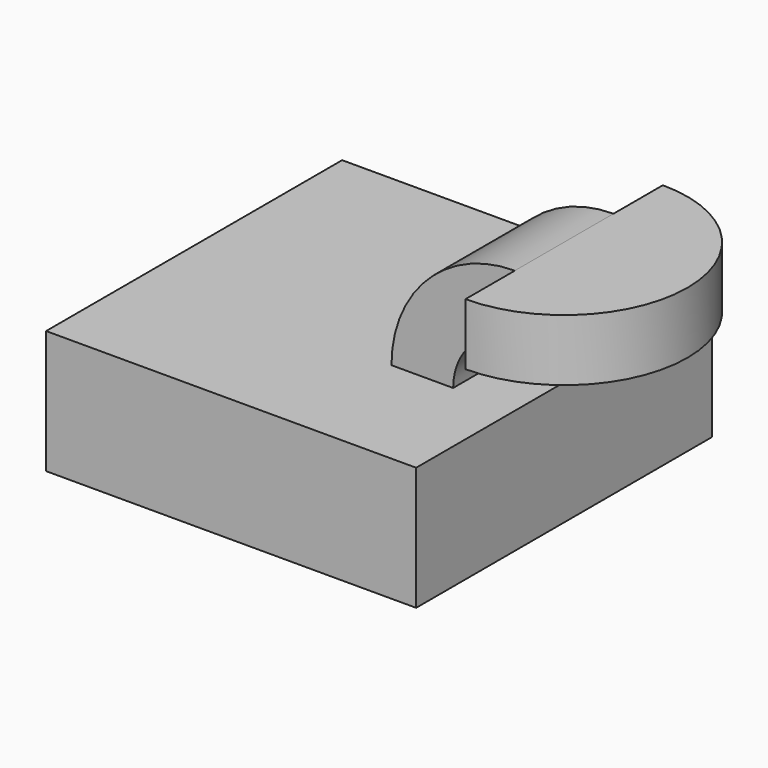
from build123d import *

# Parameters (mm, degrees)
F0_W          = 38.1
F0_H          = 38.1
F1_DEPTH      = 12.7
F4_DEPTH      = 6.35
F4_DEPTH_BACK = 6.35
F5_W          = 12.7
F5_H          = 6.35
F6_ANGLE_BACK = 90
F6_ANGLE      = 180


with BuildPart() as f1:
    # F0 (on Top) → F1 (new body)
    with BuildSketch(Plane.XY):
        with Locations((19.05, 19.05)):
            Rectangle(F0_W, F0_H)
    extrude(amount=F1_DEPTH)


with BuildPart() as f4:
    # F3 (on offset) → F4 (new body, two sides)
    with BuildSketch(Plane.XZ.offset(-19.05)) as f4_sk:
        with BuildLine():
            ThreePointArc((31.75, 12.7), (33.6098719395, 17.1901280605), (38.1, 19.05))
            Line((38.1, 19.05), (38.1, 25.4))
            ThreePointArc((38.1, 25.4), (29.1197438789, 21.6802561211), (25.4, 12.7))
            Line((25.4, 12.7), (31.75, 12.7))
        make_face()
    extrude(amount=-F4_DEPTH)
    extrude(f4_sk.sketch, amount=F4_DEPTH_BACK)


with BuildPart() as f6:
    # F5 (on offset) → F6 (revolve)
    with BuildSketch(Plane.XZ.offset(-19.05), mode=Mode.PRIVATE) as f6_sk:
        with Locations((44.45, 22.225)):
            Rectangle(F5_W, F5_H)
    revolve(f6_sk.sketch.rotate(Axis((38.1, 19.05, 22.225), (0, 0, -1)), -F6_ANGLE_BACK), axis=Axis((38.1, 19.05, 22.225), (0, 0, -1)), revolution_arc=F6_ANGLE)


solid = Compound([f1.part, f4.part, f6.part])
